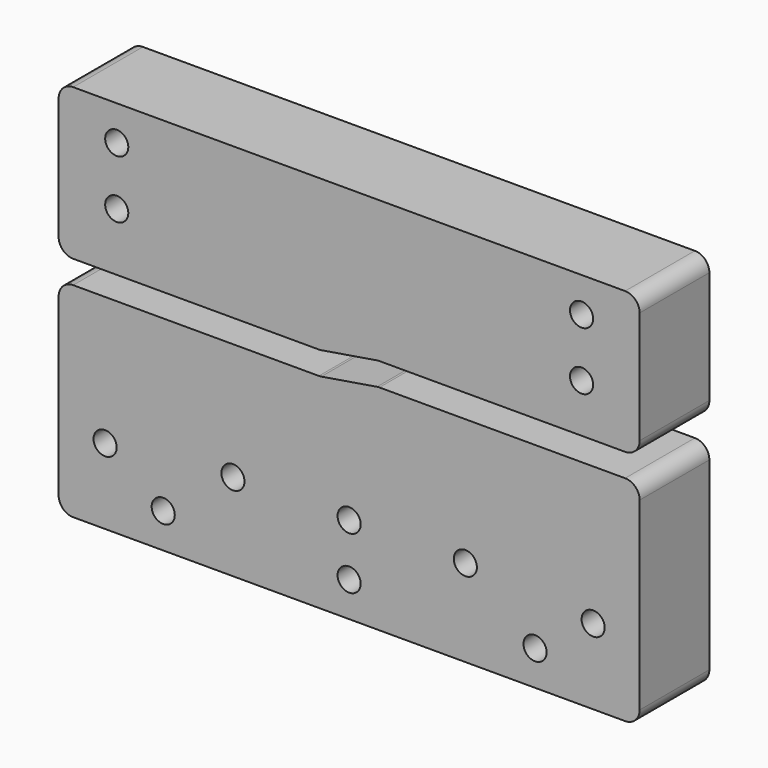
from build123d import *

# Parameters (mm, degrees)
F0_R     = 2.5273
F1_DEPTH = 19.05


with BuildPart() as f1:
    # F0 (on Front) → F1 (new body)
    with BuildSketch(Plane.XZ):
        with BuildLine():
            ThreePointArc((-63.5, 3.175), (-62.570064, 0.929936), (-60.325, 0))
            Line((-60.325, 0), (60.325, 0))
            ThreePointArc((60.325, 0), (62.570064, 0.929936), (63.5, 3.175))
            Line((63.5, 3.175), (63.5, 43.561))
            ThreePointArc((63.5, 43.561), (62.570064, 45.806064), (60.325, 46.736))
            Line((60.325, 46.736), (6.608623, 46.736))
            ThreePointArc((6.608623, 46.736), (6.350854, 46.725519), (6.094787, 46.694145))
            Line((6.094787, 46.694145), (-6.094787, 44.695055))
            ThreePointArc((-6.094787, 44.695055), (-6.350854, 44.663681), (-6.608623, 44.6532))
            Line((-6.608623, 44.6532), (-60.325, 44.6532))
            ThreePointArc((-60.325, 44.6532), (-62.570064, 43.723264), (-63.5, 41.4782))
            Line((-63.5, 41.4782), (-63.5, 3.175))
        make_face()
        with Locations((-40.64, 7.62)):
            Circle(F0_R, mode=Mode.SUBTRACT)
        with Locations((-53.34, 16.51)):
            Circle(F0_R, mode=Mode.SUBTRACT)
        with Locations((-25.4, 19.05)):
            Circle(F0_R, mode=Mode.SUBTRACT)
        with Locations((0, 7.62)):
            Circle(F0_R, mode=Mode.SUBTRACT)
        with Locations((3e-06, 19.05)):
            Circle(F0_R, mode=Mode.SUBTRACT)
        with Locations((25.4, 19.05)):
            Circle(F0_R, mode=Mode.SUBTRACT)
        with Locations((40.64, 7.62)):
            Circle(F0_R, mode=Mode.SUBTRACT)
        with Locations((53.34, 16.51)):
            Circle(F0_R, mode=Mode.SUBTRACT)
        with BuildLine():
            Line((60.325, 82.7532), (-60.325, 82.7532))
            ThreePointArc((-60.325, 82.7532), (-62.570064, 81.823264), (-63.5, 79.5782))
            Line((-63.5, 79.5782), (-63.5, 52.9082))
            ThreePointArc((-63.5, 52.9082), (-62.570064, 50.663136), (-60.325, 49.7332))
            Line((-60.325, 49.7332), (-6.608623, 49.7332))
            ThreePointArc((-6.608623, 49.7332), (-6.350854, 49.743681), (-6.094787, 49.775055))
            Line((-6.094787, 49.775055), (6.094787, 51.774145))
            ThreePointArc((6.094787, 51.774145), (6.350854, 51.805519), (6.608623, 51.816))
            Line((6.608623, 51.816), (60.325, 51.816))
            ThreePointArc((60.325, 51.816), (62.570064, 52.745936), (63.5, 54.991))
            Line((63.5, 54.991), (63.5, 79.5782))
            ThreePointArc((63.5, 79.5782), (62.570064, 81.823264), (60.325, 82.7532))
        make_face()
        with Locations((-50.8, 62.4332)):
            Circle(F0_R, mode=Mode.SUBTRACT)
        with Locations((-50.8, 75.1332)):
            Circle(F0_R, mode=Mode.SUBTRACT)
        with Locations((50.8, 62.4332)):
            Circle(F0_R, mode=Mode.SUBTRACT)
        with Locations((50.8, 75.1332)):
            Circle(F0_R, mode=Mode.SUBTRACT)
    extrude(amount=F1_DEPTH)


solid = f1.part
